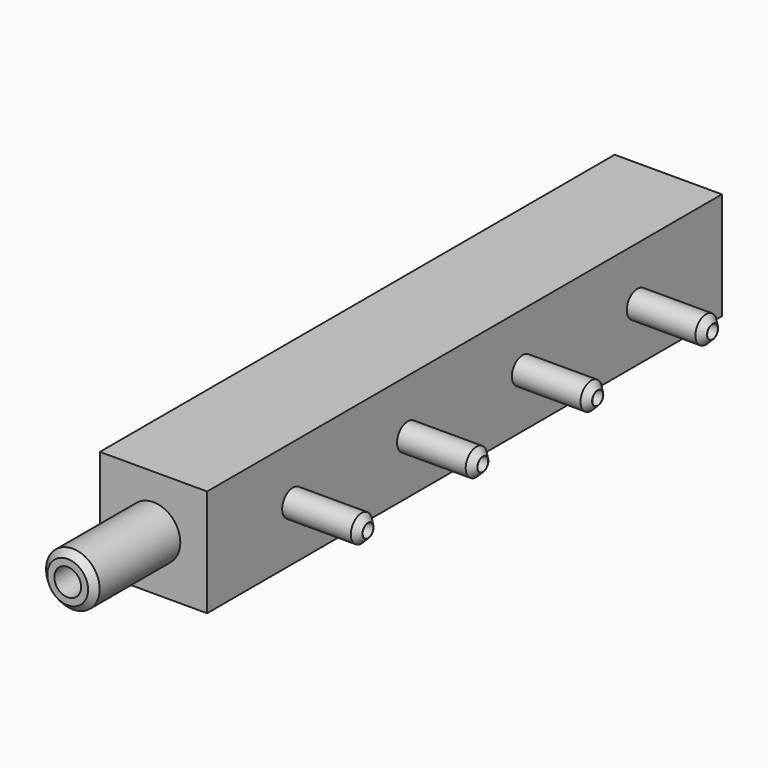
from build123d import *

# Parameters (mm, degrees)
F0_W          = 12.7
F0_H          = 12.7
F1_DEPTH      = 38.1
F2_R          = 2.9765625
F3_DEPTH      = 71.12
F4_R          = 1.5875
F5_DEPTH      = 3.8331104943
F6_R          = 3.175
F6_R_2        = 1.5875
F7_DEPTH      = 12.7
F7_DEPTH_BACK = 8.89
F8_R          = 1.5875
F8_R_2        = 0.79375
F9_DEPTH      = 8.89
F9_DEPTH_BACK = 5.08
F10_SIZE      = 0.762
F10_2_SIZE    = 0.762
F10_3_SIZE    = 0.762
F10_4_SIZE    = 0.762
F10_5_SIZE    = 0.762


with BuildPart() as f1:
    # F0 (on Front) → F1 (new body, symmetric)
    with BuildSketch(Plane.XZ):
        Rectangle(F0_W, F0_H)
    extrude(amount=F1_DEPTH, both=True)

    # F2 (on face) → F3 (cut)
    with BuildSketch(Plane.XZ.offset(38.1)):
        Circle(F2_R)
    extrude(amount=-F3_DEPTH, mode=Mode.SUBTRACT)

    # F4 (on face) → F5 (cut, through all)
    with BuildSketch(Plane.YZ.offset(6.35)):
        with Locations((-25.4, 0)):
            Circle(F4_R)
        with Locations((-8.4, 0)):
            Circle(F4_R)
        with Locations((8.6, 0)):
            Circle(F4_R)
        with Locations((25.6, 0)):
            Circle(F4_R)
    extrude(amount=-F5_DEPTH, mode=Mode.SUBTRACT)


with BuildPart() as f7:
    # F6 (on face) → F7 (new body, two sides)
    with BuildSketch(Plane.XZ.offset(38.1)) as f7_sk:
        Circle(F6_R)
        Circle(F6_R_2, mode=Mode.SUBTRACT)
    extrude(amount=F7_DEPTH)
    extrude(f7_sk.sketch, amount=-F7_DEPTH_BACK)

    # F10
    f10_edges = [f7.edges().sort_by_distance(p)[0] for p in [
        (-3.175, -50.8, 0),
    ]]
    chamfer(f10_edges, length=F10_SIZE)


with BuildPart() as f9:
    # F8 (on face) → F9 (new body, two sides)
    with BuildSketch(Plane.YZ.offset(6.35)) as f9_sk:
        with Locations((-25.4, 0)):
            Circle(F8_R)
        with Locations((-25.4, 0)):
            Circle(F8_R_2, mode=Mode.SUBTRACT)
    extrude(amount=F9_DEPTH)
    extrude(f9_sk.sketch, amount=-F9_DEPTH_BACK)

    # F10#2
    f10_2_edges = [f9.edges().sort_by_distance(p)[0] for p in [
        (15.24, -26.9875, 0),
    ]]
    chamfer(f10_2_edges, length=F10_2_SIZE)


with BuildPart() as f9b:
    # F8 (on face) → F9, piece 2 (new body, two sides)
    with BuildSketch(Plane.YZ.offset(6.35)) as f9_2_sk:
        with Locations((-8.4, 0)):
            Circle(F8_R)
        with Locations((-8.4, 0)):
            Circle(F8_R_2, mode=Mode.SUBTRACT)
    extrude(amount=F9_DEPTH)
    extrude(f9_2_sk.sketch, amount=-F9_DEPTH_BACK)

    # F10#3
    f10_3_edges = [f9b.edges().sort_by_distance(p)[0] for p in [
        (15.24, -9.9875, 0),
    ]]
    chamfer(f10_3_edges, length=F10_3_SIZE)


with BuildPart() as f9c:
    # F8 (on face) → F9, piece 3 (new body, two sides)
    with BuildSketch(Plane.YZ.offset(6.35)) as f9_3_sk:
        with Locations((8.6, 0)):
            Circle(F8_R)
        with Locations((8.6, 0)):
            Circle(F8_R_2, mode=Mode.SUBTRACT)
    extrude(amount=F9_DEPTH)
    extrude(f9_3_sk.sketch, amount=-F9_DEPTH_BACK)

    # F10#4
    f10_4_edges = [f9c.edges().sort_by_distance(p)[0] for p in [
        (15.24, 7.0125, 0),
    ]]
    chamfer(f10_4_edges, length=F10_4_SIZE)


with BuildPart() as f9d:
    # F8 (on face) → F9, piece 4 (new body, two sides)
    with BuildSketch(Plane.YZ.offset(6.35)) as f9_4_sk:
        with Locations((25.6, 0)):
            Circle(F8_R)
        with Locations((25.6, 0)):
            Circle(F8_R_2, mode=Mode.SUBTRACT)
    extrude(amount=F9_DEPTH)
    extrude(f9_4_sk.sketch, amount=-F9_DEPTH_BACK)

    # F10#5
    f10_5_edges = [f9d.edges().sort_by_distance(p)[0] for p in [
        (15.24, 24.0125, 0),
    ]]
    chamfer(f10_5_edges, length=F10_5_SIZE)


solid = Compound([f1.part, f7.part, f9.part, f9b.part, f9c.part, f9d.part])
